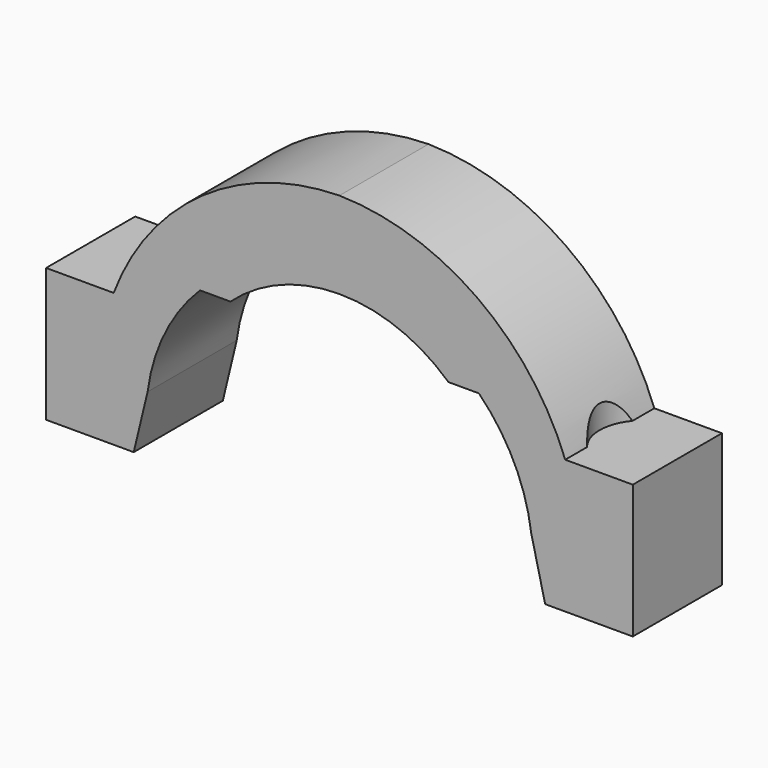
from build123d import *

# Parameters (mm, degrees)
F1_DEPTH = 15
F2_R     = 5.9375
F2_R_2   = 2.375
F3_DEPTH = 25.4


with BuildPart() as f1:
    # F0 (on Front) → F1 (new body)
    with BuildSketch(Plane.XZ):
        with BuildLine():
            ThreePointArc((-9.282405, 0.250459), (5.397131, 5.92398), (20.076666, 0.250459))
            Line((20.076666, 0.250459), (24.176666, 0.250459))
            ThreePointArc((24.176666, 0.250459), (28.890291, -6.325752), (31.227789, -14.071777))
            Line((31.227789, -14.071777), (33.097131, -21.835415))
            Line((33.097131, -21.835415), (44.897131, -21.835415))
            Line((44.897131, -21.835415), (44.897131, -3.835415))
            Line((44.897131, -3.835415), (35.797131, -3.835415))
            ThreePointArc((35.797131, -3.835415), (23.894233, 11.555465), (5.397131, 17.58998))
            ThreePointArc((5.397131, 17.58998), (-13.099972, 11.555465), (-25.002869, -3.835415))
            Line((-25.002869, -3.835415), (-34.102869, -3.835415))
            Line((-34.102869, -3.835415), (-34.102869, -21.835415))
            Line((-34.102869, -21.835415), (-22.302869, -21.835415))
            Line((-22.302869, -21.835415), (-20.433528, -14.071777))
            ThreePointArc((-20.433528, -14.071777), (-18.09603, -6.325752), (-13.382405, 0.250459))
            Line((-13.382405, 0.250459), (-9.282405, 0.250459))
        make_face()
    extrude(amount=F1_DEPTH)

    # F2 (on face) → F3 (cut)
    with BuildSketch(Plane.XY.offset(-3.835415)):
        with Locations((-29.552869, -7.5)):
            Circle(F2_R)
        with Locations((-29.552869, -7.5)):
            Circle(F2_R_2, mode=Mode.SUBTRACT)
        with Locations((40.347131, -7.5)):
            Circle(F2_R)
        with Locations((40.347131, -7.5)):
            Circle(F2_R_2, mode=Mode.SUBTRACT)
    extrude(amount=F3_DEPTH, mode=Mode.SUBTRACT)


solid = f1.part
